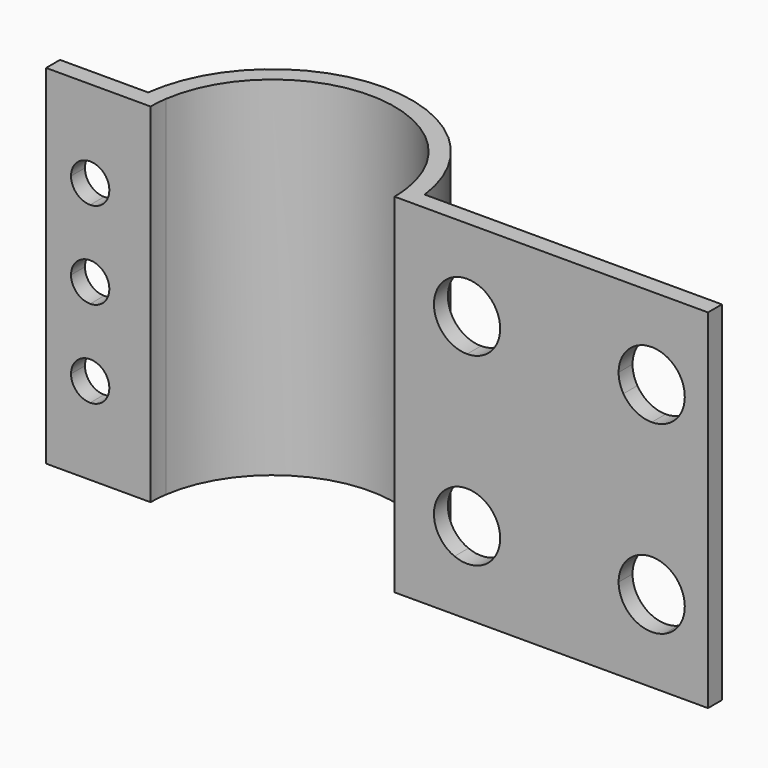
from build123d import *

# Parameters (mm, degrees)
F1_DEPTH = 25.4
F4_DEPTH = 25.4


with BuildPart() as f1:
    # F0 (on Top) → F1 (new body)
    with BuildSketch(Plane.XY):
        with BuildLine():
            ThreePointArc((-8.7988181024, 1.27), (0, 8.89), (8.7988181024, 1.27))
            Line((8.7988181024, 1.27), (8.793940497, 1.27))
            ThreePointArc((8.793940497, 1.27), (8.8647426852, 0.636722448), (8.89, 0))
            Line((8.89, 0), (10.16, 0))
            Line((10.16, 0), (31.75, 0))
            Line((31.75, 0), (31.75, 1.27))
            Line((31.75, 1.27), (10.0803124952, 1.27))
            ThreePointArc((10.0803124952, 1.27), (0, 10.16), (-10.0803124952, 1.27))
            Line((-10.0803124952, 1.27), (-16.51, 1.27))
            Line((-16.51, 1.27), (-16.51, 0))
            Line((-16.51, 0), (-10.16, 0))
            Line((-10.16, 0), (-8.89, 0))
            ThreePointArc((-8.89, 0), (-8.8647426852, 0.636722448), (-8.793940497, 1.27))
            Line((-8.793940497, 1.27), (-8.7988181024, 1.27))
        make_face()
    extrude(amount=F1_DEPTH)

    # F3 (on face) + F2 (on face) → F4 (cut)
    with BuildSketch(Plane(origin=(0, 1.27, 0), x_dir=(-1, 0, 0), z_dir=(0, 1, 0))):
        with BuildLine():
            Line((-25.5859228767, 18.1748123319), (-26.6576234364, 19.431))
            Line((-26.6576234364, 19.431), (-27.6461562476, 19.431))
            Line((-27.6461562476, 19.431), (-27.6461562476, 17.018))
            ThreePointArc((-27.6461562476, 17.018), (-26.4647612762, 17.3269859978), (-25.5859228767, 18.1748123319))
        make_face()
        with BuildLine():
            Line((-25.2331562476, 19.431), (-26.6576234364, 19.431))
            Line((-26.6576234364, 19.431), (-25.5859228767, 18.1748123319))
            ThreePointArc((-25.5859228767, 18.1748123319), (-25.3230212834, 18.7786098268), (-25.2331562476, 19.431))
        make_face()
        with BuildLine():
            ThreePointArc((-25.2331562476, 19.431), (-26.302230179, 21.4351037204), (-28.5621506298, 21.6633806332))
            Line((-28.5621506298, 21.6633806332), (-26.6576234364, 19.431))
            Line((-26.6576234364, 19.431), (-25.2331562476, 19.431))
        make_face()
        with BuildLine():
            Line((-26.6576234364, 19.431), (-28.5621506298, 21.6633806332))
            ThreePointArc((-28.5621506298, 21.6633806332), (-30.013570815, 18.9641839056), (-27.6461562476, 17.018))
            Line((-27.6461562476, 17.018), (-27.6461562476, 19.431))
            Line((-27.6461562476, 19.431), (-26.6576234364, 19.431))
        make_face()
        with BuildLine():
            ThreePointArc((-27.6461562476, 8.382), (-30.013570815, 6.4358160944), (-28.5621506298, 3.7366193668))
            Line((-28.5621506298, 3.7366193668), (-26.6576234364, 5.969))
            Line((-26.6576234364, 5.969), (-27.6461562476, 5.969))
            Line((-27.6461562476, 5.969), (-27.6461562476, 8.382))
        make_face()
        with BuildLine():
            Line((-26.6576234364, 5.969), (-28.5621506298, 3.7366193668))
            ThreePointArc((-28.5621506298, 3.7366193668), (-26.302230179, 3.9648962796), (-25.2331562476, 5.969))
            Line((-25.2331562476, 5.969), (-26.6576234364, 5.969))
        make_face()
        with BuildLine():
            Line((-25.5859228767, 7.2251876681), (-26.6576234364, 5.969))
            Line((-26.6576234364, 5.969), (-25.2331562476, 5.969))
            ThreePointArc((-25.2331562476, 5.969), (-25.3230212834, 6.6213901732), (-25.5859228767, 7.2251876681))
        make_face()
        with BuildLine():
            ThreePointArc((-25.5859228767, 7.2251876681), (-26.4647612762, 8.0730140022), (-27.6461562476, 8.382))
            Line((-27.6461562476, 8.382), (-27.6461562476, 5.969))
            Line((-27.6461562476, 5.969), (-26.6576234364, 5.969))
            Line((-26.6576234364, 5.969), (-25.5859228767, 7.2251876681))
        make_face()
        with BuildLine():
            ThreePointArc((-16.2443896185, 7.2251876681), (-16.5072912118, 6.6213901732), (-16.5971562476, 5.969))
            Line((-16.5971562476, 5.969), (-15.1726890588, 5.969))
            Line((-15.1726890588, 5.969), (-16.2443896185, 7.2251876681))
        make_face()
        with BuildLine():
            ThreePointArc((-16.5971562476, 5.969), (-15.5280823162, 3.9648962796), (-13.2681618653, 3.7366193668))
            Line((-13.2681618653, 3.7366193668), (-15.1726890588, 5.969))
            Line((-15.1726890588, 5.969), (-16.5971562476, 5.969))
        make_face()
        with BuildLine():
            Line((-15.1726890588, 5.969), (-13.2681618653, 3.7366193668))
            ThreePointArc((-13.2681618653, 3.7366193668), (-12.1800525272, 4.6250739314), (-11.7711562476, 5.969))
            ThreePointArc((-11.7711562476, 5.969), (-12.4779075846, 7.675248663), (-14.1841562476, 8.382))
            Line((-14.1841562476, 8.382), (-14.1841562476, 5.969))
            Line((-14.1841562476, 5.969), (-15.1726890588, 5.969))
        make_face()
        with BuildLine():
            Line((-16.2443896185, 7.2251876681), (-15.1726890588, 5.969))
            Line((-15.1726890588, 5.969), (-14.1841562476, 5.969))
            Line((-14.1841562476, 5.969), (-14.1841562476, 8.382))
            ThreePointArc((-14.1841562476, 8.382), (-15.365551219, 8.0730140022), (-16.2443896185, 7.2251876681))
        make_face()
        with BuildLine():
            Line((-14.1841562476, 19.431), (-15.1726890588, 19.431))
            Line((-15.1726890588, 19.431), (-16.2443896185, 18.1748123319))
            ThreePointArc((-16.2443896185, 18.1748123319), (-15.365551219, 17.3269859978), (-14.1841562476, 17.018))
            Line((-14.1841562476, 17.018), (-14.1841562476, 19.431))
        make_face()
        with BuildLine():
            Line((-15.1726890588, 19.431), (-16.5971562476, 19.431))
            ThreePointArc((-16.5971562476, 19.431), (-16.5072912118, 18.7786098268), (-16.2443896185, 18.1748123319))
            Line((-16.2443896185, 18.1748123319), (-15.1726890588, 19.431))
        make_face()
        with BuildLine():
            Line((-15.1726890588, 19.431), (-13.2681618653, 21.6633806332))
            ThreePointArc((-13.2681618653, 21.6633806332), (-15.5280823162, 21.4351037204), (-16.5971562476, 19.431))
            Line((-16.5971562476, 19.431), (-15.1726890588, 19.431))
        make_face()
        with BuildLine():
            ThreePointArc((-11.7711562476, 19.431), (-12.1800525272, 20.7749260686), (-13.2681618653, 21.6633806332))
            Line((-13.2681618653, 21.6633806332), (-15.1726890588, 19.431))
            Line((-15.1726890588, 19.431), (-14.1841562476, 19.431))
            Line((-14.1841562476, 19.431), (-14.1841562476, 17.018))
            ThreePointArc((-14.1841562476, 17.018), (-12.4779075846, 17.724751337), (-11.7711562476, 19.431))
        make_face()
    with BuildSketch(Plane(origin=(0, 1.27, 0), x_dir=(-1, 0, 0), z_dir=(0, 1, 0))):
        with BuildLine():
            Line((13.2951562476, 17.653), (13.2951562476, 20.447))
            ThreePointArc((13.2951562476, 20.447), (11.8981562476, 19.05), (13.2951562476, 17.653))
        make_face()
        with BuildLine():
            ThreePointArc((14.6921562476, 19.05), (14.2829844209, 20.0378281733), (13.2951562476, 20.447))
            Line((13.2951562476, 20.447), (13.2951562476, 17.653))
            ThreePointArc((13.2951562476, 17.653), (14.2829844209, 18.0621718267), (14.6921562476, 19.05))
        make_face()
        with BuildLine():
            Line((13.2951562476, 11.303), (13.2951562476, 14.097))
            ThreePointArc((13.2951562476, 14.097), (11.8981562476, 12.7), (13.2951562476, 11.303))
        make_face()
        with BuildLine():
            ThreePointArc((14.6921562476, 12.7), (14.2829844209, 13.6878281733), (13.2951562476, 14.097))
            Line((13.2951562476, 14.097), (13.2951562476, 11.303))
            ThreePointArc((13.2951562476, 11.303), (14.2829844209, 11.7121718267), (14.6921562476, 12.7))
        make_face()
        with BuildLine():
            ThreePointArc((13.2951562476, 7.747), (11.8981562476, 6.35), (13.2951562476, 4.953))
            Line((13.2951562476, 4.953), (13.2951562476, 7.747))
        make_face()
        with BuildLine():
            Line((13.2951562476, 7.747), (13.2951562476, 4.953))
            ThreePointArc((13.2951562476, 4.953), (14.2829844209, 5.3621718267), (14.6921562476, 6.35))
            ThreePointArc((14.6921562476, 6.35), (14.2829844209, 7.3378281733), (13.2951562476, 7.747))
        make_face()
    extrude(amount=-F4_DEPTH, mode=Mode.SUBTRACT)


solid = f1.part
